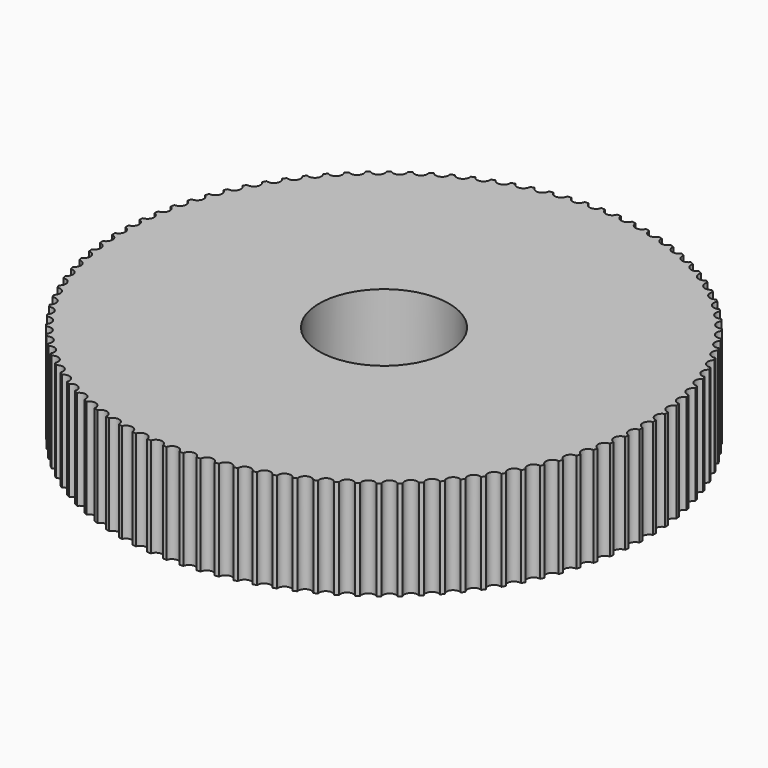
from build123d import *

# Parameters (mm, degrees)
SKETCH038_R        = 0.15
POCKET011_DEPTH    = 37.7592608263
POLARPATTERN_COUNT = 100


with BuildPart() as part:
    # Sketch037 → Revolution (revolve)
    with BuildSketch(Plane.XZ):
        Polygon((6.1, 0.5), (6.1, 2.8), (1.5, 2.8), (1.5, 0), (3, 0), (3, 0.5), align=None)
    revolve(axis=Axis((0, 0, 0), (0, 0, 1)))

    # Sketch038 → Pocket011 (cut, through all)
    with BuildSketch(Plane.XY):
        with Locations((0, 6.129118)):
            Circle(SKETCH038_R)
    pocket011 = extrude(amount=POCKET011_DEPTH, mode=Mode.SUBTRACT)

    # PolarPattern: Pocket011 ×100 about axis
    polarpattern_axis = Axis((0, 0, 0), (0, 0, 1))
    for i in range(1, POLARPATTERN_COUNT):
        add(pocket011.rotate(polarpattern_axis, i * 360 / POLARPATTERN_COUNT), mode=Mode.SUBTRACT)


solid = part.part
